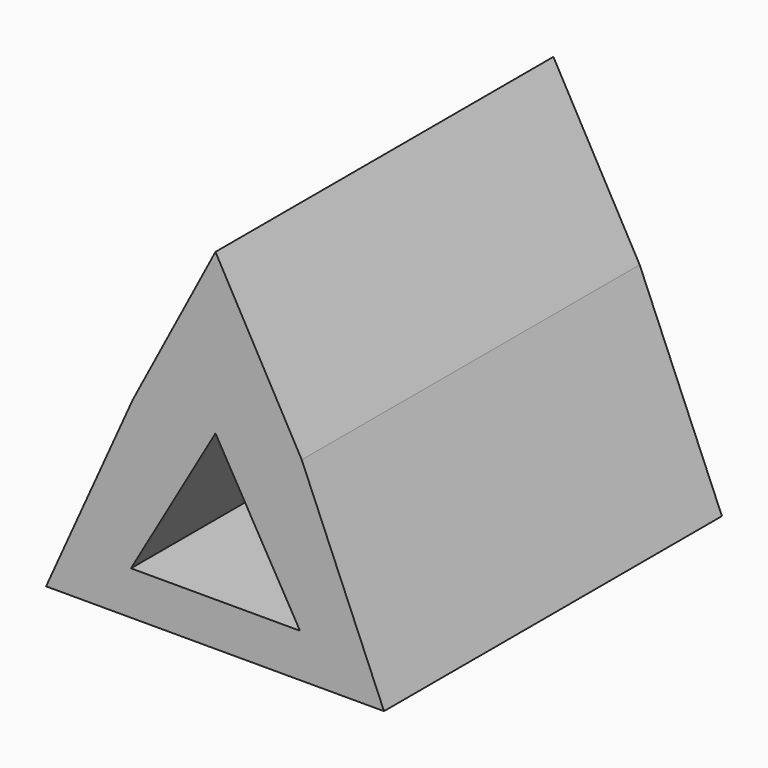
from build123d import *

# Parameters (mm, degrees)
F1_DEPTH = 63.5


with BuildPart() as f1:
    # F0 (on Front) → F1 (new body, symmetric)
    with BuildSketch(Plane.XZ):
        Polygon((-24.8563379985, 28.4985704217), (-50.9303996729, -29.4012854313), (50.6696003271, -29.4012854313), (25.9402706639, 29.0855528694), (0, 75.6930410862), align=None)
        Polygon((0, 27.6665240526), (25.4, -16.3275664596), (-25.4, -16.3275664596), align=None, mode=Mode.SUBTRACT)
    extrude(amount=F1_DEPTH, both=True)


solid = f1.part
